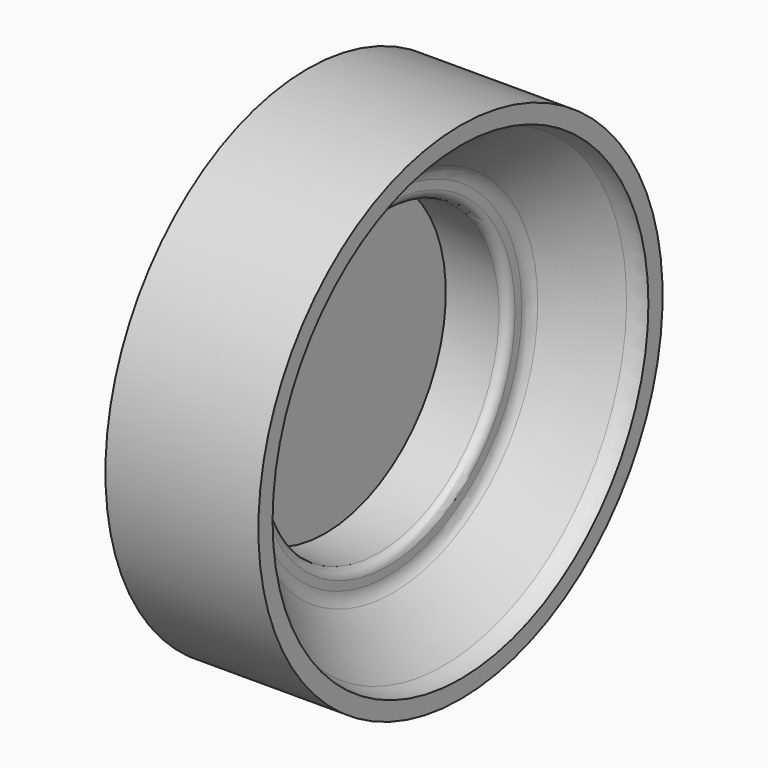
from build123d import *


with BuildPart() as f1:
    # F0 (on Front) → F1 (revolve)
    with BuildSketch(Plane.XZ):
        with BuildLine():
            Line((7.6274327665, 20.4293505417), (13.3332152067, 25.8130880211))
            add(Edge.make_bspline(
                [(13.3332152067, 25.8130880211), (13.6873531533, 26.0396653478), (14.3178862388, 26.3941712558), (14.9677615599, 26.4891502818), (15.2545960447, 26.4951649422)],
                knots=[0.0753740232, 0.0753740232, 0.0753740232, 0.0753740232, 0.236653892, 0.3609439983, 0.3609439983, 0.3609439983, 0.3609439983], degree=3))
            Line((15.2545960447, 26.4951649422), (15.2545960447, 28.4951649422))
            Line((15.2545960447, 28.4951649422), (-2, 28.4951649422))
            Line((-2, 28.4951649422), (-2, 0))
            Line((-2, 0), (0, 0))
            Line((0, 0), (0, 17))
            Line((0, 17), (5.9999981131, 17))
            ThreePointArc((5.9999981131, 17), (6.7071048494, 17.292893174), (6.9999981131, 17.9999998731))
            Line((6.9999981131, 17.9999998731), (6.9999982367, 18.9746813235))
            ThreePointArc((6.9999982367, 18.9746813235), (7.1635437461, 19.7667886958), (7.6274327665, 20.4293505417))
        make_face()
    revolve(axis=Axis((-1, 0, 0), (-1, 0, 0)))


solid = f1.part
